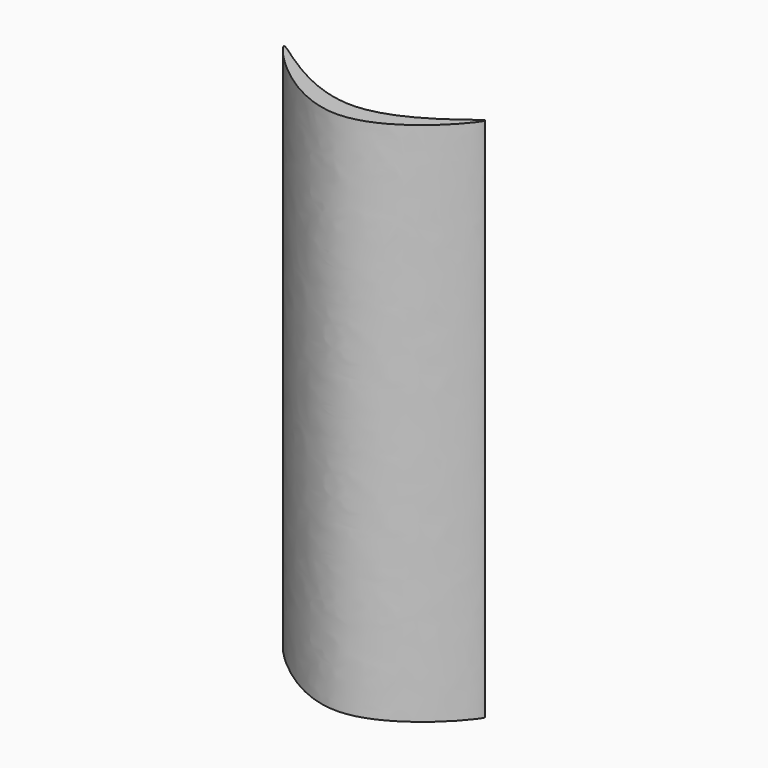
from build123d import *

# Parameters (mm, degrees)
F1_DEPTH = 127
F2_R     = 1.5875
F3_DEPTH = 114.3


with BuildPart() as f1:
    # F0 (on Top) → F1 (new body)
    with BuildSketch(Plane.XY):
        with BuildLine():
            add(Edge.make_bspline(
                [(-25.347167626, 0), (-25.6676685637, -0.9298113828), (0.2798223249, -30.07736168), (34.6581667121, 12.8921088043), (0.1873655375, -22.6435778772), (-25.038322826, 0.8959955396), (-25.347167626, 0)],
                knots=[0, 0, 0, 0, 0.2587639264, 0.5098917641, 0.7506469289, 1, 1, 1, 1], degree=3))
        make_face()
    extrude(amount=F1_DEPTH)

    # F2 (on Top) → F3 (cut)
    with BuildSketch(Plane.XY):
        with Locations((0, -13.3000975475)):
            Circle(F2_R)
    extrude(amount=F3_DEPTH, mode=Mode.SUBTRACT)


solid = f1.part
